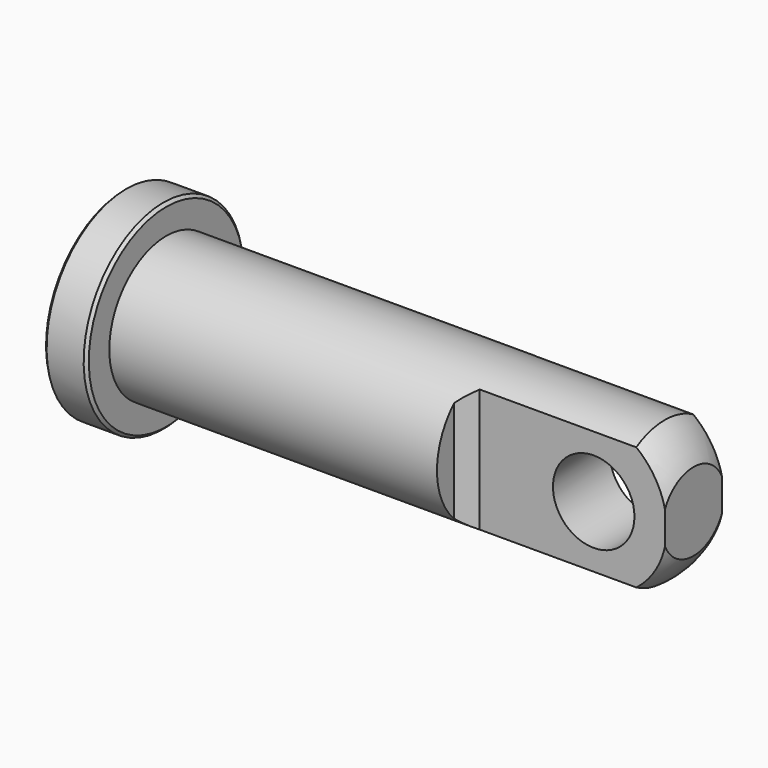
from build123d import *

# Parameters (mm, degrees)
F2_W     = 88.9
F2_H     = 15.875
F3_DEPTH = 31.75
F4_SIZE  = 6.35
F5_R     = 18.161
F6_DEPTH = 60.326
F7_SIZE  = 1.27


with BuildPart() as f1:
    # F0 (on Front) → F1 (revolve)
    with BuildSketch(Plane.XZ):
        with BuildLine():
            Line((-254, 0), (0, 0))
            Line((0, 0), (0, 17.4625))
            ThreePointArc((0, 17.4625), (-5.487017, 25.425187), (-12.801965, 31.75))
            Line((-12.801965, 31.75), (-234.95, 31.75))
            Line((-234.95, 31.75), (-234.95, 44.45))
            Line((-234.95, 44.45), (-254, 44.45))
            Line((-254, 44.45), (-254, 0))
        make_face()
    revolve(axis=Axis((-125.804233, 0, 0), (-1, 0, 0)))

    # F2 (on Top) → F3 (cut, symmetric)
    with BuildSketch(Plane.XY):
        with Locations((-44.45, 23.8125)):
            Rectangle(F2_W, F2_H)
        with Locations((-44.45, -23.8125)):
            Rectangle(F2_W, F2_H)
    extrude(amount=F3_DEPTH, both=True, mode=Mode.SUBTRACT)

    # F4
    f4_edges = [f1.edges().sort_by_distance(p)[0] for p in [
        (-88.9, -15.875, 0),
        (-88.9, 15.875, 0),
    ]]
    chamfer(f4_edges, length=F4_SIZE)

    # F5 (on face) → F6 (cut, through all)
    with BuildSketch(Plane.XZ.offset(15.875)):
        with Locations((-31.75, 0)):
            Circle(F5_R)
    extrude(amount=-F6_DEPTH, mode=Mode.SUBTRACT)

    # F7
    f7_edges = [f1.edges().sort_by_distance(p)[0] for p in [
        (-234.95, 0, -44.45),
        (-254, 0, -44.45),
    ]]
    chamfer(f7_edges, length=F7_SIZE)


solid = f1.part
